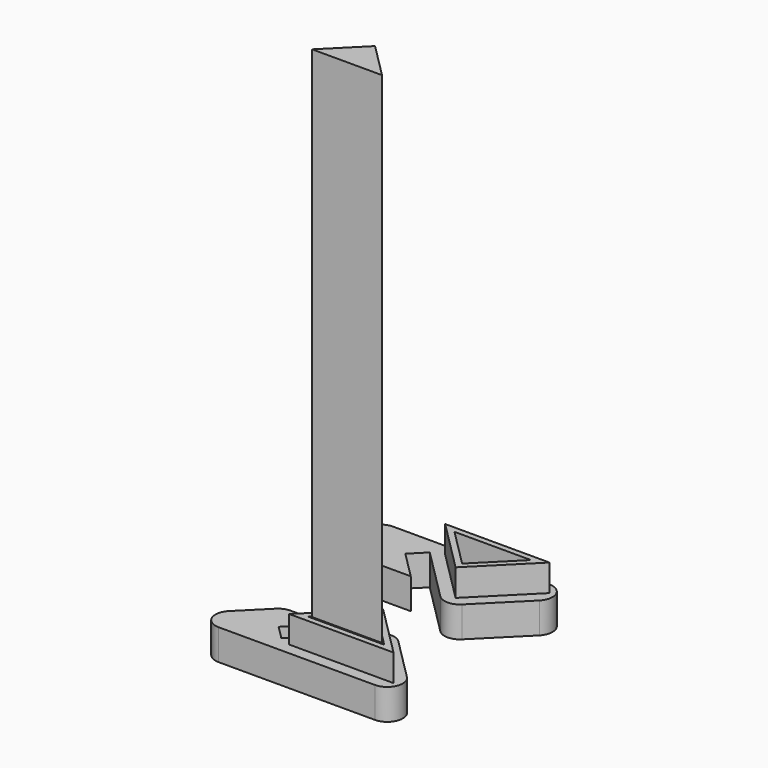
from build123d import *

# Parameters (mm, degrees)
F1_DEPTH = 8
F3_DEPTH = 7
F9_DEPTH = 130


with BuildPart() as f1:
    # F0 (on Top) → F1 (new body)
    with BuildSketch(Plane.XY):
        with BuildLine():
            Line((-50.343146, 0), (-9.656854, 0))
            ThreePointArc((-9.656854, 0), (-5.961336, 2.469266), (-6.828427, 6.828427))
            Line((-6.828427, 6.828427), (-17.979185, 17.979185))
            ThreePointArc((-17.979185, 17.979185), (-20.807612, 19.150758), (-23.636039, 17.979185))
            Line((-23.636039, 17.979185), (-37.398133, 4.21709))
            Line((-37.398133, 4.21709), (-40.933667, 7.752624))
            Line((-40.933667, 7.752624), (-33.862599, 14.823692))
            Line((-33.862599, 14.823692), (-43.519454, 14.823692))
            ThreePointArc((-43.519454, 14.823692), (-45.050187, 14.51921), (-46.347881, 13.652119))
            Line((-46.347881, 13.652119), (-53.171573, 6.828427))
            ThreePointArc((-53.171573, 6.828427), (-54.038664, 2.469266), (-50.343146, 0))
        make_face()
    extrude(amount=F1_DEPTH)

    # F2 (on face) → F3 (join)
    with BuildSketch(Plane.XY.offset(8)):
        Polygon((-34.372583, 3), (-7.242641, 3), (-20.807612, 16.564971), align=None)
        Polygon((-10.863961, 4.5), (-30.751263, 4.5), (-20.807612, 14.443651), align=None, mode=Mode.SUBTRACT)
    extrude(amount=F3_DEPTH)


with BuildPart() as f4_1:
    # F4: copy of F1
    add(f1.part.moved(Location((0, -29, 0))))


with BuildPart() as f5_1:
    # F5: instance of F4_1
    add(f4_1.part.mirror(Plane.XZ))


with BuildPart() as f1_1:
    # F7: moved
    add(f1.part.moved(Location((0, -27.7, 0))))


with BuildPart() as f9:
    # F8 (on face) → F9 (new body)
    with BuildSketch(Plane.XY.offset(15)):
        Polygon((-11.708936, -22.85), (-20.807612, -13.751324), (-29.906288, -22.85), align=None)
    extrude(amount=F9_DEPTH)


solid = Compound([f5_1.part, f1_1.part, f9.part])
